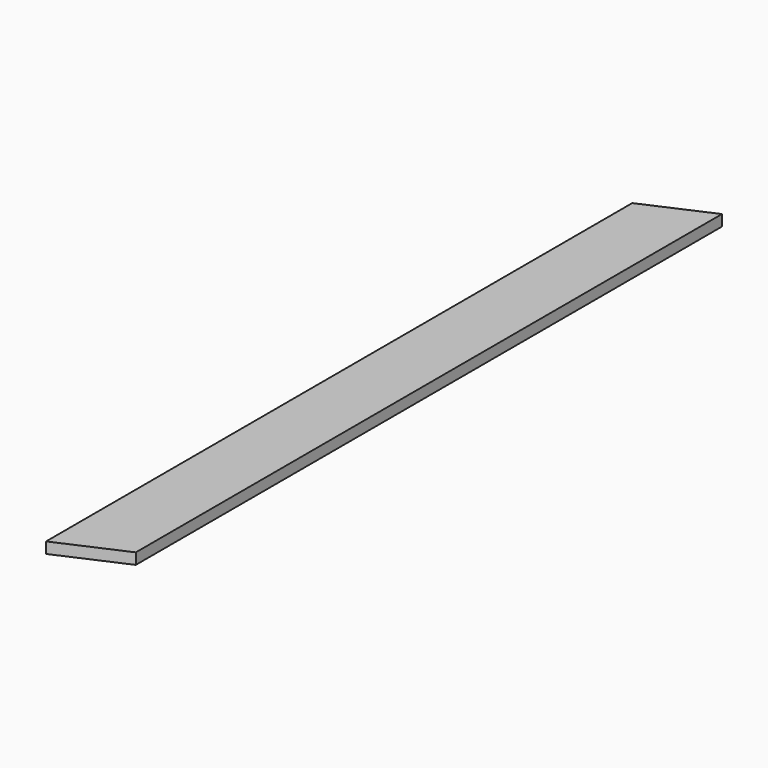
from build123d import *

# Parameters (mm, degrees)
F0_W     = 90
F0_H     = 15
F1_DEPTH = 1034.408
F3_DEPTH = 15


with BuildPart() as f1:
    # F0 (on Front) → F1 (new body)
    with BuildSketch(Plane.XZ):
        with Locations((0.869781, -5.442599)):
            Rectangle(F0_W, F0_H)
    extrude(amount=-F1_DEPTH)

    # F2 (on face) → F3 (cut)
    with BuildSketch(Plane(origin=(0, 0, -12.942599), x_dir=(1, 0, 0), z_dir=(0, 0, -1))):
        Polygon((45.869781, 0), (-44.130219, 0), (45.869781, -39.721002), align=None)
        Polygon((45.869781, -1034.408), (-44.130219, -994.686998), (-44.130219, -1034.408), align=None)
    extrude(amount=-F3_DEPTH, mode=Mode.SUBTRACT)


solid = f1.part
